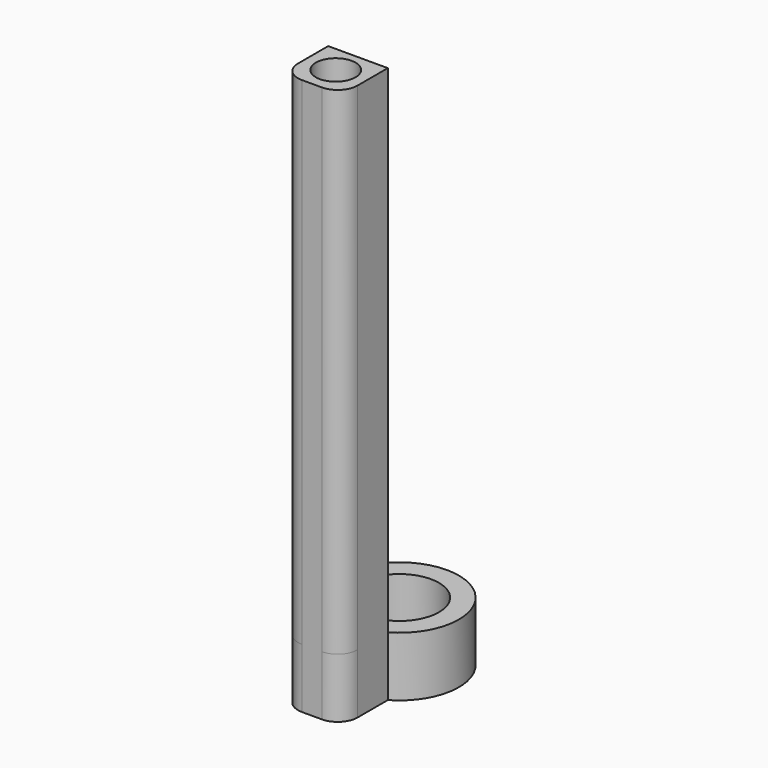
from build123d import *

# Parameters (mm, degrees)
F0_R     = 7.62
F0_R_2   = 5.08
F1_DEPTH = 7.62
F3_DEPTH = 7.62
F4_R     = 2.54
F5_R     = 2.54
F6_DEPTH = 63.5


with BuildPart() as f1:
    # F0 (on Top) → F1 (new body)
    with BuildSketch(Plane.XY):
        Circle(F0_R)
        Circle(F0_R_2, mode=Mode.SUBTRACT)
    extrude(amount=F1_DEPTH)

    # F2 (on face) → F3 (join)
    with BuildSketch(Plane.XY.offset(7.62)):
        with BuildLine():
            ThreePointArc((3.7e-09, -7.62), (-1.9722011219, -7.3603547968), (-3.81, -6.5991135768))
            Line((-3.81, -6.5991135768), (-3.81, -13.97))
            Line((-3.81, -13.97), (3.81, -13.97))
            Line((3.81, -13.97), (3.81, -6.5991135768))
            ThreePointArc((3.81, -6.5991135768), (1.9722011255, -7.3603547958), (3.7e-09, -7.62))
        make_face()
        with BuildLine():
            ThreePointArc((2.54, -10.16), (-1.7960512255, -11.9560512229), (3.7e-09, -7.62))
            ThreePointArc((3.7e-09, -7.62), (1.7960512255, -8.3639487771), (2.54, -10.16))
        make_face(mode=Mode.SUBTRACT)
        with BuildLine():
            Line((0, -5.08), (-3.81, -5.08))
            Line((-3.81, -5.08), (-3.81, -6.5991135768))
            ThreePointArc((-3.81, -6.5991135768), (-1.9722011219, -7.3603547968), (3.7e-09, -7.62))
            ThreePointArc((3.7e-09, -7.62), (1.9722011255, -7.3603547958), (3.81, -6.5991135768))
            Line((3.81, -6.5991135768), (3.81, -5.08))
            Line((3.81, -5.08), (0, -5.08))
        make_face()
    extrude(amount=-F3_DEPTH)

    # F4
    f4_edges = [f1.edges().sort_by_distance(p)[0] for p in [
        (3.81, -13.97, 3.81),
        (-3.81, -13.97, 3.81),
    ]]
    fillet(f4_edges, radius=F4_R)

    # F5 (on face) → F6 (join)
    with BuildSketch(Plane.XY.offset(7.62)):
        with BuildLine():
            Line((3.81, -6.5991135768), (-3.81, -6.5991135768))
            Line((-3.81, -6.5991135768), (-3.81, -11.43))
            ThreePointArc((-3.81, -11.43), (-3.0660512242, -13.2260512242), (-1.27, -13.97))
            Line((-1.27, -13.97), (1.27, -13.97))
            ThreePointArc((1.27, -13.97), (3.0660512242, -13.2260512242), (3.81, -11.43))
            Line((3.81, -11.43), (3.81, -6.5991135768))
        make_face()
        with Locations((0, -10.16)):
            Circle(F5_R, mode=Mode.SUBTRACT)
    extrude(amount=F6_DEPTH)


solid = f1.part
